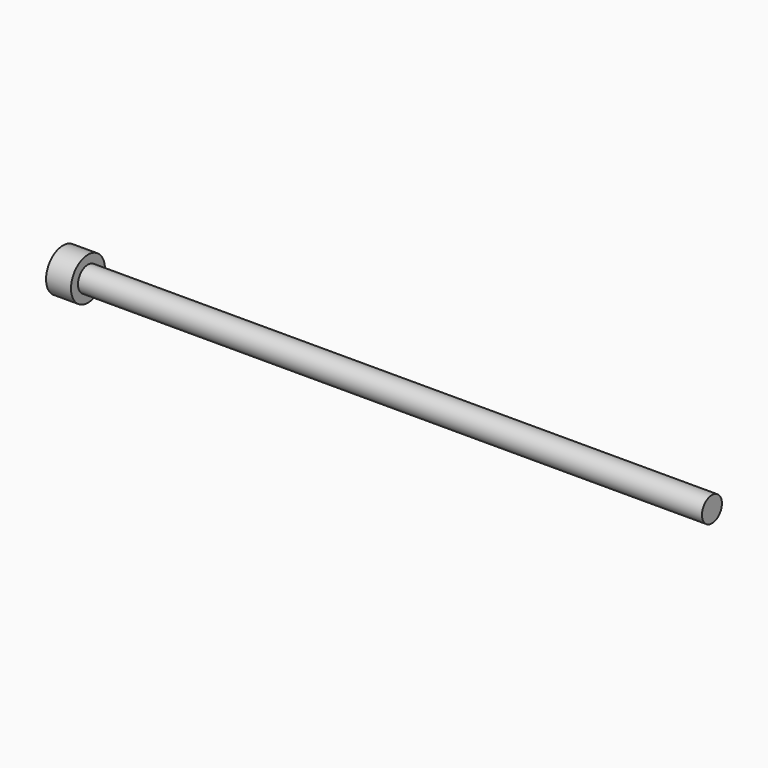
from build123d import *

# Parameters (mm, degrees)
F3_DEPTH = 2


with BuildPart() as f1:
    # F0 (on Top) → F1 (revolve)
    with BuildSketch(Plane.XY):
        Polygon((0, 4.25), (0, 0), (130, 0), (130, 2.5), (5, 2.5), (5, 4.25), align=None)
    revolve(axis=Axis((65, 0, 0), (-1, 0, 0)))

    # F2 (on face) → F3 (cut)
    with BuildSketch(Plane(origin=(0, 0, 0), x_dir=(0, -1, 0), z_dir=(-1, 0, 0))):
        Polygon((1.154701, 2), (-1.154701, 2), (-2.309401, 0), (-1.154701, -2), (1.154701, -2), (2.309401, 0), align=None)
    extrude(amount=-F3_DEPTH, mode=Mode.SUBTRACT)


solid = f1.part
